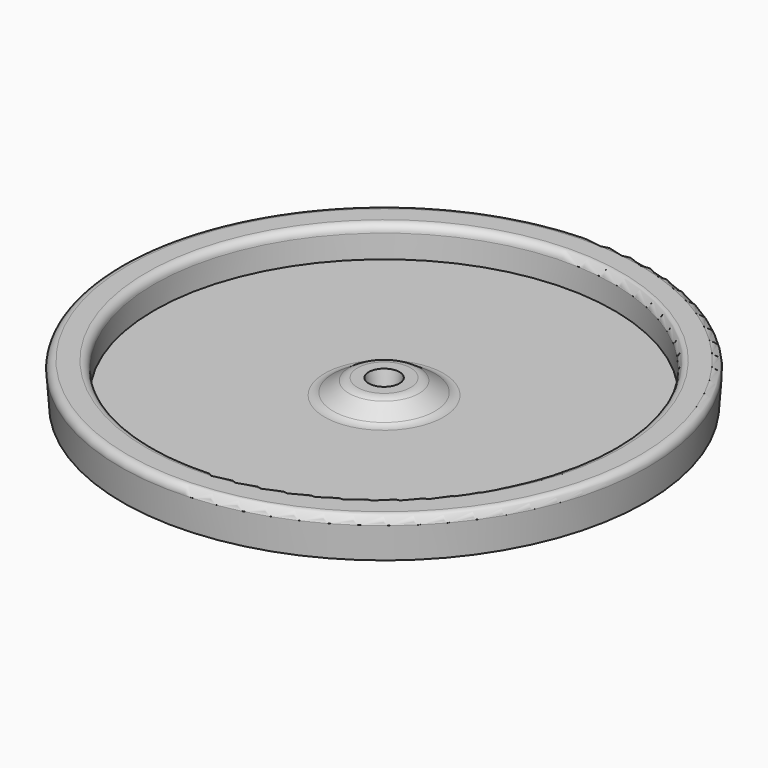
from build123d import *

# Parameters (mm, degrees)
F2_R = 5.08


with BuildPart() as f1:
    # F0 (on Front) → F1 (revolve)
    with BuildSketch(Plane.XZ):
        with BuildLine():
            Line((5.08, 8.128), (3.81, 0))
            Line((3.81, 0), (78.8035, 0))
            Line((78.8035, 0), (78.8035, 10.16))
            Line((78.8035, 10.16), (84.1375, 10.16))
            Line((84.1375, 10.16), (83.44046, 0))
            Line((83.44046, 0), (86.233623, 0))
            Line((86.233623, 0), (86.989289, 10.48542))
            ThreePointArc((86.989289, 10.48542), (86.315342, 12.398296), (84.455859, 13.208))
            Line((84.455859, 13.208), (78.2955, 13.208))
            ThreePointArc((78.2955, 13.208), (76.499449, 12.464051), (75.7555, 10.668))
            Line((75.7555, 10.668), (75.7555, 3.048))
            Line((75.7555, 3.048), (18.050879, 3.048))
            Line((18.050879, 3.048), (10.263972, 8.128))
            Line((10.263972, 8.128), (5.08, 8.128))
        make_face()
    revolve(axis=Axis((0, 0, 2.539245), (0, 0, 1)))

    # F2
    f2_edges = [f1.edges().sort_by_distance(p)[0] for p in [
        (-10.263972, 0, 8.128),
        (-18.050879, 0, 3.048),
    ]]
    fillet(f2_edges, radius=F2_R)


solid = f1.part
